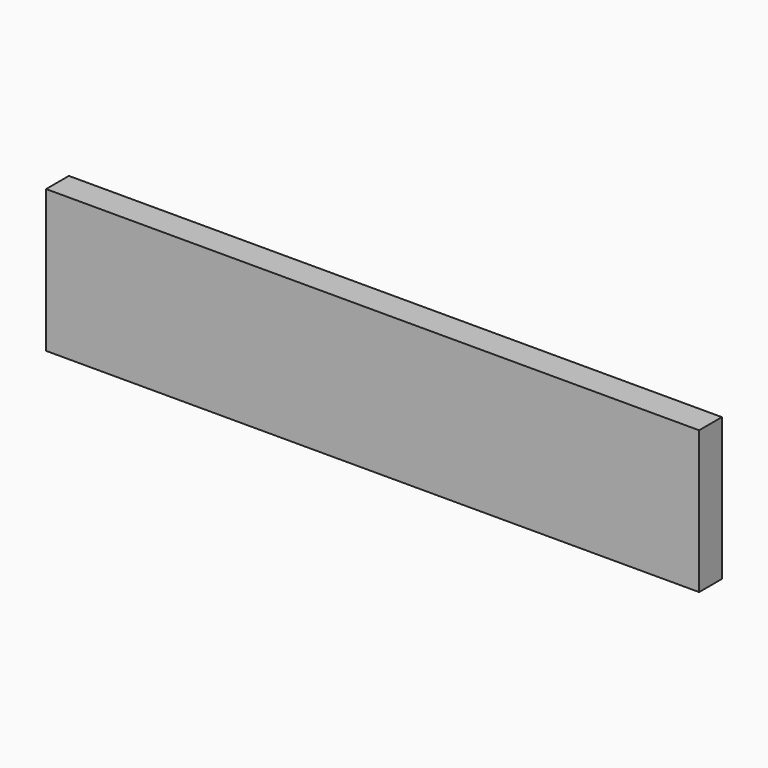
from build123d import *

# Parameters (mm, degrees)
F0_W     = 275
F0_H     = 60
F1_DEPTH = 6
F2_R     = 1.5
F3_DEPTH = 137.5


with BuildPart() as f1:
    # F0 (on Front) → F1 (new body, symmetric)
    with BuildSketch(Plane.XZ):
        Rectangle(F0_W, F0_H)
    extrude(amount=F1_DEPTH, both=True)

    # F2 (on face) → F3 (cut)
    with BuildSketch(Plane(origin=(-137.5, 0, 0), x_dir=(0, -1, 0), z_dir=(-1, 0, 0))):
        Circle(F2_R)
    extrude(amount=-F3_DEPTH, mode=Mode.SUBTRACT)


solid = f1.part
